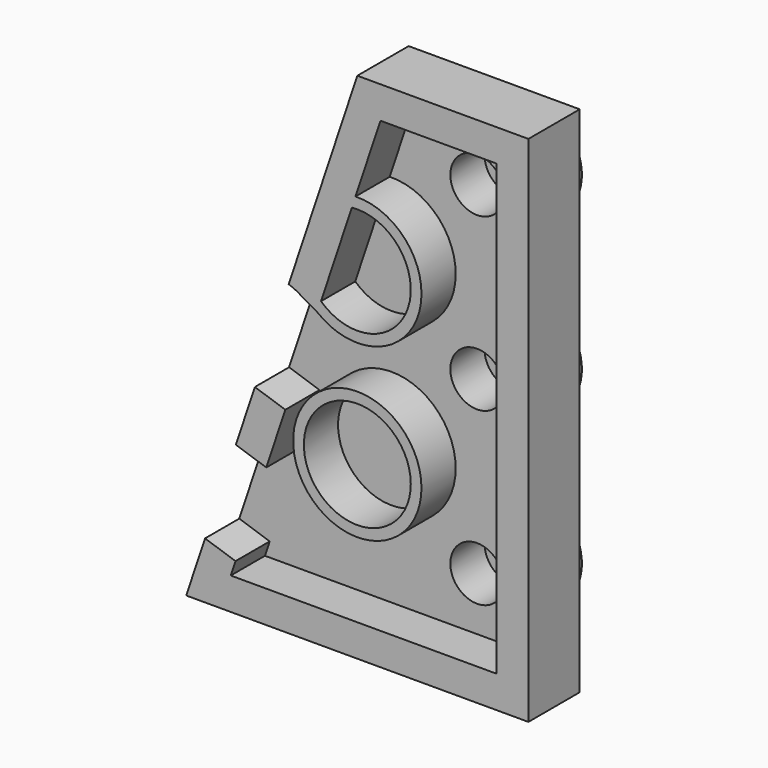
from build123d import *

# Parameters (mm, degrees)
F1_DEPTH = 3
F2_R     = 2.5
F3_DEPTH = 2
F4_R     = 1.25
F5_DEPTH = 4
F6_R     = 3
F6_R_2   = 2.5
F7_DEPTH = 2


with BuildPart() as f1:
    # F0 (on Front) → F1 (new body)
    with BuildSketch(Plane.XZ):
        Polygon((-16, 0), (0, 0), (0, 24), (-8, 24), align=None)
    extrude(amount=F1_DEPTH)

    # F2 (on face) → F3 (join)
    with BuildSketch(Plane(origin=(0, 0, 0), x_dir=(-1, 0, 0), z_dir=(0, 1, 0))):
        with Locations((4, 20)):
            Circle(F2_R)
        with Locations((4, 12)):
            Circle(F2_R)
        with Locations((4, 4)):
            Circle(F2_R)
    extrude(amount=F3_DEPTH)

    # F4 (on face) → F5 (cut)
    with BuildSketch(Plane.XZ.offset(3)):
        with Locations((-4, 20)):
            Circle(F4_R)
        with Locations((-4, 12)):
            Circle(F4_R)
        with Locations((-4, 4)):
            Circle(F4_R)
    extrude(amount=-F5_DEPTH, mode=Mode.SUBTRACT)

    # F6 (on face) → F7 (cut)
    with BuildSketch(Plane.XZ.offset(3)):
        with BuildLine():
            Line((-13.9188611699, 1.5), (-1.5, 1.5))
            Line((-1.5, 1.5), (-1.5, 22.5))
            Line((-1.5, 22.5), (-6.9188611699, 22.5))
            Line((-6.9188611699, 22.5), (-8.0859382195, 18.9987688511))
            ThreePointArc((-8.0859382195, 18.9987688511), (-5.1539501058, 15.0513167019), (-9.8680118863, 13.6525478508))
            Line((-9.8680118863, 13.6525478508), (-10.6400973399, 14.0977761451))
            ThreePointArc((-10.6400973399, 14.0977761451), (-10.9160755398, 14.2527999833), (-11.209430585, 14.3717082451))
            Line((-11.209430585, 14.3717082451), (-12.790569415, 9.6282917549))
            Line((-12.790569415, 9.6282917549), (-11.367544468, 9.1539501058))
            Line((-11.367544468, 9.1539501058), (-12.2565955429, 6.486796881))
            Line((-12.2565955429, 6.486796881), (-13.67962049, 6.96113853))
            Line((-13.67962049, 6.96113853), (-15.12037951, 2.63886147))
            Line((-15.12037951, 2.63886147), (-13.6973545629, 2.1645198209))
            Line((-13.6973545629, 2.1645198209), (-13.9188611699, 1.5))
        make_face()
        with Locations((-8, 8)):
            Circle(F6_R, mode=Mode.SUBTRACT)
        with BuildLine():
            Line((-8.2565955429, 18.486796881), (-9.6973545629, 14.1645198209))
            ThreePointArc((-9.6973545629, 14.1645198209), (-5.6282917549, 15.209430585), (-8.2565955429, 18.486796881))
        make_face()
        with Locations((-8, 8)):
            Circle(F6_R_2)
    extrude(amount=-F7_DEPTH, mode=Mode.SUBTRACT)


solid = f1.part
